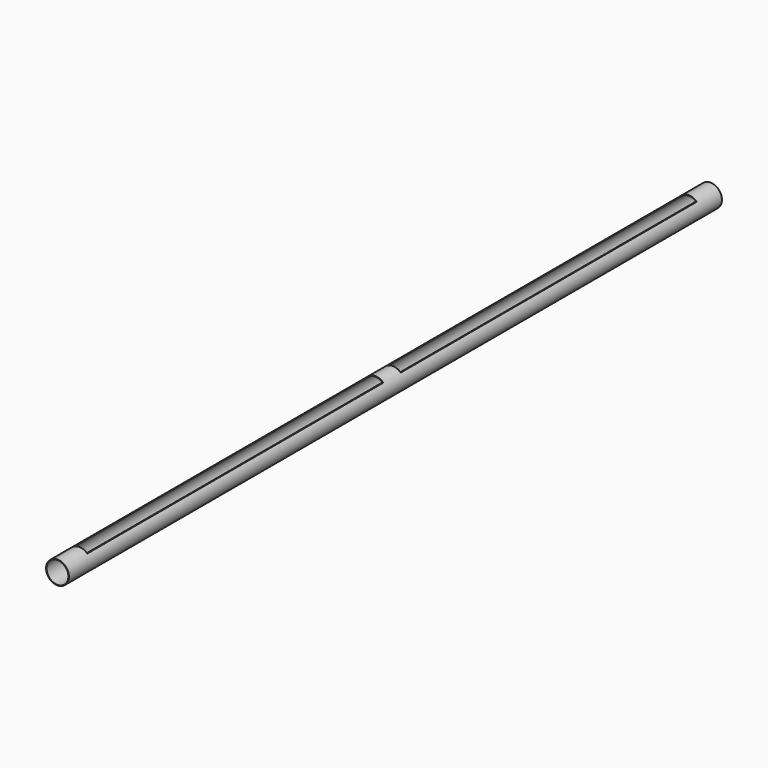
from build123d import *

# Parameters (mm, degrees)
F0_R     = 53.34
F0_R_2   = 50.8
F1_DEPTH = 3810
F2_W     = 1727.2
F2_H     = 260.696266
F3_DEPTH = 127


with BuildPart() as f1:
    # F0 (on Front) → F1 (new body)
    with BuildSketch(Plane.XZ):
        Circle(F0_R)
        Circle(F0_R_2, mode=Mode.SUBTRACT)
    extrude(amount=-F1_DEPTH)

    # F2 (on Right) → F3 (cut, symmetric)
    with BuildSketch(Plane.YZ):
        with Locations((990.6, 168.448133)):
            Rectangle(F2_W, F2_H)
        with Locations((2819.4, 168.448133)):
            Rectangle(F2_W, F2_H)
    extrude(amount=F3_DEPTH, both=True, mode=Mode.SUBTRACT)


solid = f1.part
